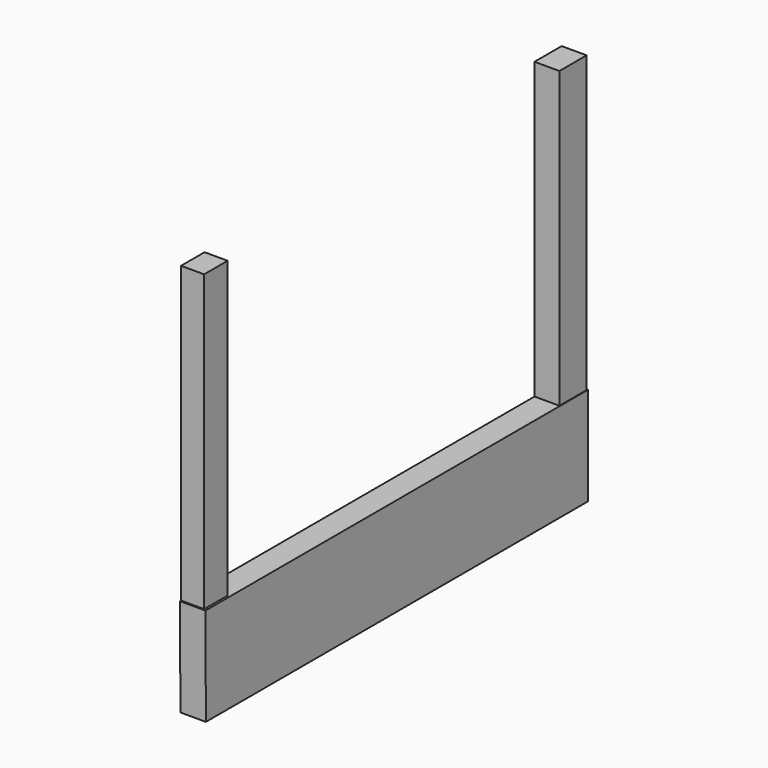
from build123d import *

# Parameters (mm, degrees)
F1_DEPTH = 8.128
F2_W     = 7.37743
F2_H     = 9.382971
F2_W_2   = 7.954949
F2_H_2   = 10.831244
F3_DEPTH = 93.98


with BuildPart() as f1:
    # F0 (on Right) → F1 (new body)
    with BuildSketch(Plane.YZ):
        Polygon((76.068617, 0), (-76.462761, 0), (-76.265693, -31.333964), (76.068617, -31.333964), align=None)
    extrude(amount=F1_DEPTH)

    # F2 (on Top) → F3 (join)
    with BuildSketch(Plane.XY):
        with Locations((3.688715, -71.337815)):
            Rectangle(F2_W, F2_H)
        with Locations((3.977475, 70.281338)):
            Rectangle(F2_W_2, F2_H_2)
    extrude(amount=F3_DEPTH)


solid = f1.part
